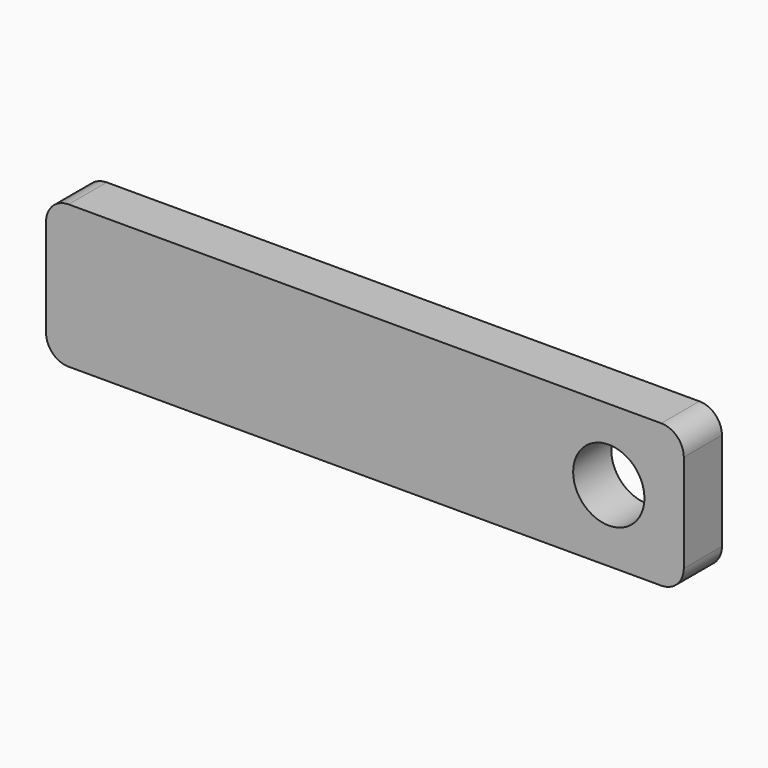
from build123d import *

# Parameters (mm, degrees)
F2_DEPTH = 6.35
F3_D     = 9.5


with BuildPart() as f2:
    # F0 (on Front) → F2 (new body)
    with BuildSketch(Plane.XZ):
        with BuildLine():
            Line((39.5, 9.525), (-39.5, 9.525))
            ThreePointArc((-39.5, 9.525), (-41.62132, 8.64632), (-42.5, 6.525))
            Line((-42.5, 6.525), (-42.5, -6.525))
            ThreePointArc((-42.5, -6.525), (-41.62132, -8.64632), (-39.5, -9.525))
            Line((-39.5, -9.525), (39.5, -9.525))
            ThreePointArc((39.5, -9.525), (41.62132, -8.64632), (42.5, -6.525))
            Line((42.5, -6.525), (42.5, 6.525))
            ThreePointArc((42.5, 6.525), (41.62132, 8.64632), (39.5, 9.525))
        make_face()
    extrude(amount=F2_DEPTH)

    # F3 (through all)
    with Locations(Plane(origin=(0, 0, 0), x_dir=(1, 0, 0), z_dir=(0, 1, 0))):
        with Locations((32.5, 0)):
            Hole(F3_D / 2)


solid = f2.part
